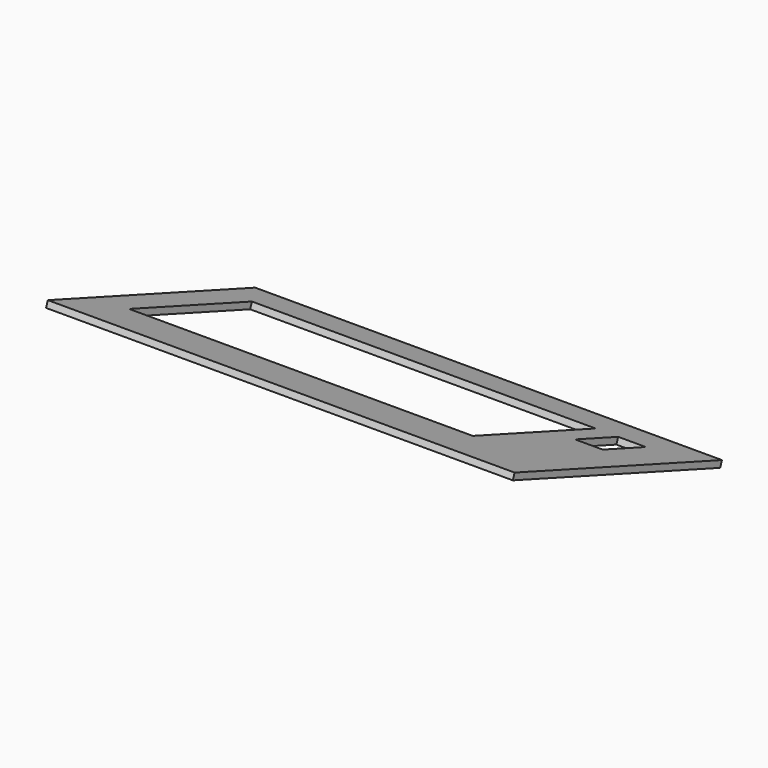
from build123d import *

# Parameters (mm, degrees)
SKETCH_W             = 220
SKETCH_H             = 130
PAD_DEPTH            = 3
SKETCH001_W          = 162
SKETCH001_H          = 77
POCKET_DEPTH         = 3.001
SKETCH002_W          = 13
SKETCH002_H          = 27
POCKET001_DEPTH      = 3.001
BODY_PLACEMENT_ANGLE = 340


with BuildPart() as part:
    # Sketch → Pad (new body)
    with BuildSketch(Plane.XY):
        Rectangle(SKETCH_W, SKETCH_H)
    extrude(amount=PAD_DEPTH)

    # Sketch001 (on Face6 of Pad) → Pocket (cut, through all)
    with BuildSketch(Plane.XY.offset(3)):
        with Locations((-14, 4.5)):
            Rectangle(SKETCH001_W, SKETCH001_H)
    extrude(amount=-POCKET_DEPTH, mode=Mode.SUBTRACT)

    # Sketch002 (on Face5 of Pocket) → Pocket001 (cut, through all)
    with BuildSketch(Plane.XY.offset(3)):
        with Locations((84.141838, 29.5)):
            Rectangle(SKETCH002_W, SKETCH002_H)
    extrude(amount=-POCKET001_DEPTH, mode=Mode.SUBTRACT)


with BuildPart() as part_1:
    # Body placement: moved
    add(part.part.rotate(Axis((0, 0, 0), (1, 0, 0)), BODY_PLACEMENT_ANGLE))


solid = part_1.part
